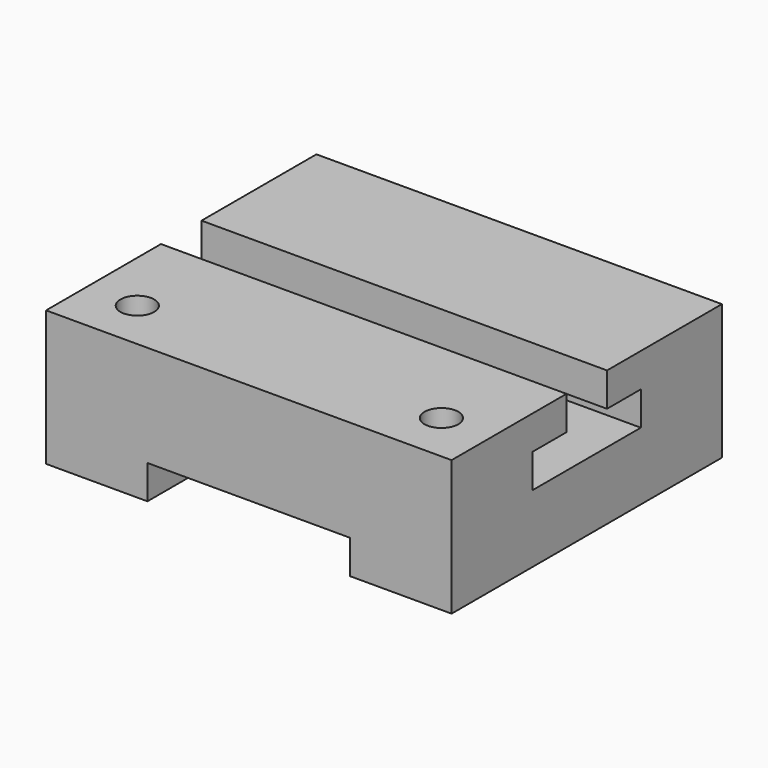
from build123d import *

# Parameters (mm, degrees)
F1_DEPTH = 6
F2_R     = 0.25
F3_DEPTH = 25
F4_W     = 3
F4_H     = 0.5
F5_DEPTH = 25


with BuildPart() as f1:
    # F0 (on Right) → F1 (new body)
    with BuildSketch(Plane.YZ):
        Polygon((0, 2), (0, 0), (5, 0), (5, 2), (2.875, 2), (2.875, 1.5), (3.5, 1.5), (3.5, 1), (1.5, 1), (1.5, 1.5), (2.125, 1.5), (2.125, 2), align=None)
    extrude(amount=F1_DEPTH)

    # F2 (on face) → F3 (cut)
    with BuildSketch(Plane.XY.offset(2)):
        with Locations((0.75, 0.75)):
            Circle(F2_R)
        with Locations((5.25, 0.75)):
            Circle(F2_R)
    extrude(amount=-F3_DEPTH, mode=Mode.SUBTRACT)

    # F4 (on face) → F5 (cut)
    with BuildSketch(Plane.XZ):
        with Locations((3, 0.25)):
            Rectangle(F4_W, F4_H)
    extrude(amount=-F5_DEPTH, mode=Mode.SUBTRACT)


solid = f1.part
